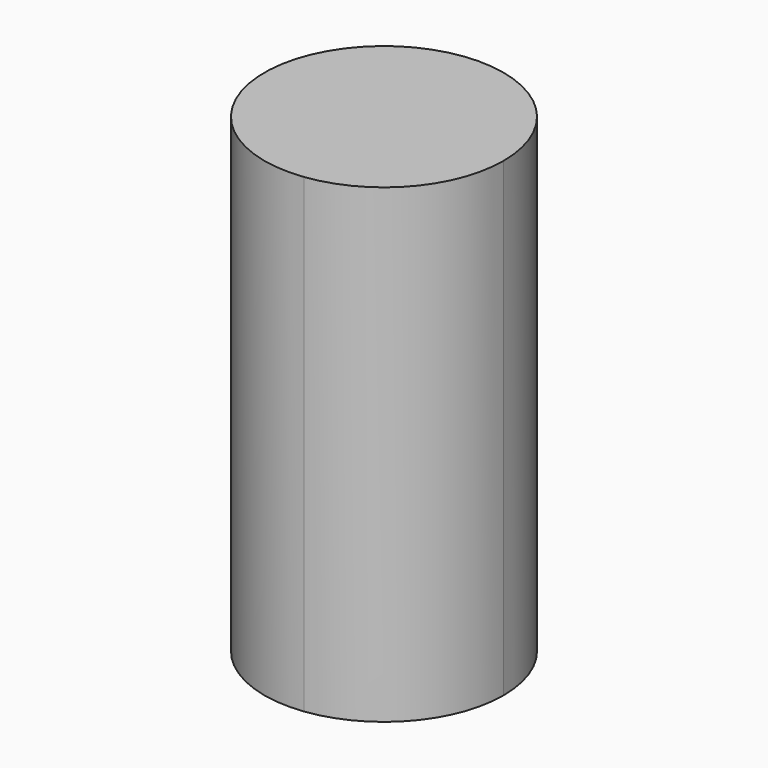
from build123d import *

# Parameters (mm, degrees)
F1_DEPTH = 25.4


with BuildPart() as f1:
    # F0 (on Top) → F1 (new body)
    with BuildSketch(Plane.XY):
        with BuildLine():
            ThreePointArc((82.310282, 26.32075), (80.124018, 31.16121), (75.046951, 32.721081))
            ThreePointArc((75.046951, 32.721081), (69.458352, 25.509018), (76.670414, 19.920419))
            ThreePointArc((76.670414, 19.920419), (80.699143, 22.055414), (82.310282, 26.32075))
        make_face()
    extrude(amount=F1_DEPTH)


solid = f1.part
